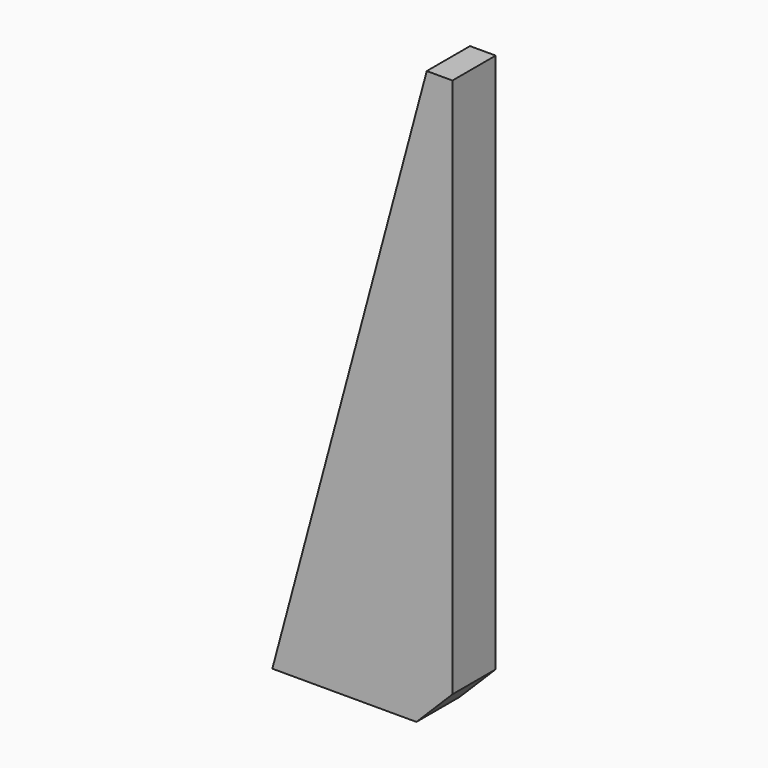
from build123d import *

# Parameters (mm, degrees)
F1_DEPTH = 15
F2_SIZE2 = 10
F2_SIZE  = 10


with BuildPart() as f1:
    # F0 (on Front) → F1 (new body)
    with BuildSketch(Plane.XZ):
        Polygon((-50, 0), (0, 0), (0, 160), (-7.128129, 160), align=None)
    extrude(amount=F1_DEPTH)

    # F2
    f2_edges = [f1.edges().sort_by_distance(p)[0] for p in [
        (0, -7.5, 0),
    ]]
    chamfer(f2_edges, length=F2_SIZE, length2=F2_SIZE2)


solid = f1.part
